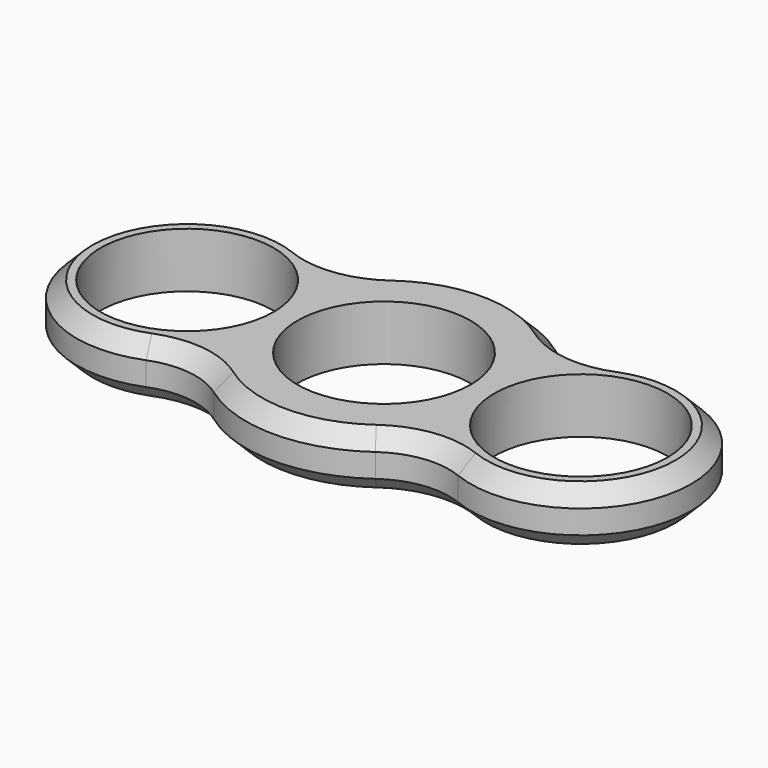
from build123d import *

# Parameters (mm, degrees)
F0_R     = 11
F1_DEPTH = 7
F2_R     = 10
F3_SIZE  = 2
F4_SIZE  = 2


with BuildPart() as f1:
    # F0 (on Top) → F1 (new body)
    with BuildSketch(Plane.XY):
        with BuildLine():
            ThreePointArc((14.705, 9.487517), (0, 17.5), (-14.705, 9.487517))
            ThreePointArc((-14.705, 9.487517), (-39, 0), (-14.705, -9.487517))
            ThreePointArc((-14.705, -9.487517), (0, -17.5), (14.705, -9.487517))
            ThreePointArc((14.705, -9.487517), (39, 0), (14.705, 9.487517))
        make_face()
        with Locations((-25, 0)):
            Circle(F0_R, mode=Mode.SUBTRACT)
        Circle(F0_R, mode=Mode.SUBTRACT)
        with Locations((25, 0)):
            Circle(F0_R, mode=Mode.SUBTRACT)
    extrude(amount=F1_DEPTH)

    # F2
    f2_edges = [f1.edges().sort_by_distance(p)[0] for p in [
        (-14.705, -9.487517, 3.5),
        (14.705, -9.487517, 3.5),
        (-14.705, 9.487517, 3.5),
        (14.705, 9.487517, 3.5),
    ]]
    fillet(f2_edges, radius=F2_R)

    # F3
    f3_edges = [f1.edges().sort_by_distance(p)[0] for p in [
        (-39, 0, 7),
    ]]
    chamfer(f3_edges, length=F3_SIZE)

    # F4
    f4_edges = [f1.edges().sort_by_distance(p)[0] for p in [
        (-39, 0, 0),
    ]]
    chamfer(f4_edges, length=F4_SIZE)


solid = f1.part
